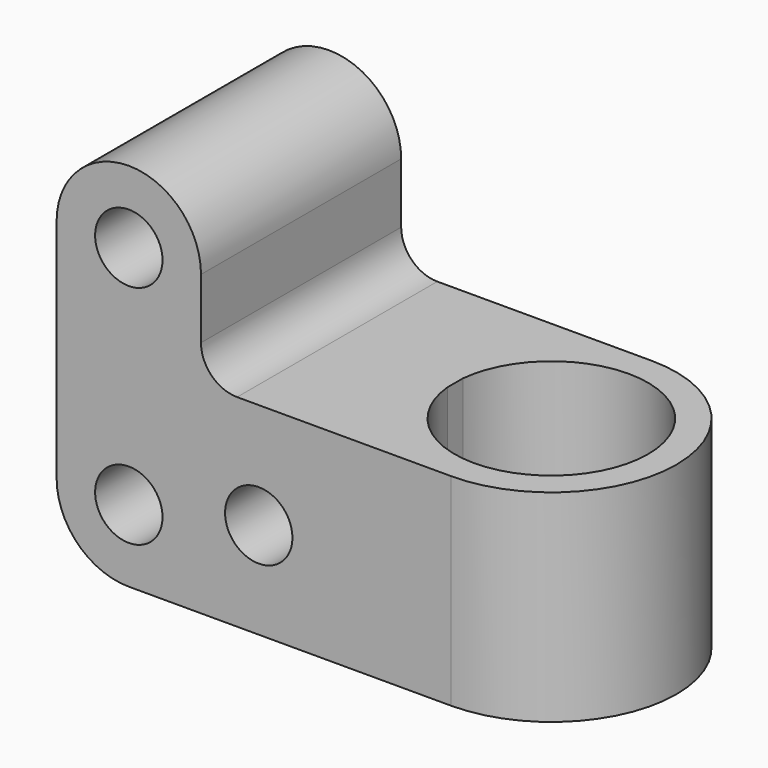
from build123d import *

# Parameters (mm, degrees)
F0_R     = 7
F1_DEPTH = 52
F3_DEPTH = 42


with BuildPart() as f1:
    # F0 (on Front) → F1 (new body)
    with BuildSketch(Plane.XZ):
        with BuildLine():
            Line((-47, 0), (0, 0))
            Line((0, 0), (0, 42))
            Line((0, 42), (-24.5, 42))
            ThreePointArc((-24.5, 42), (-29.803301, 44.196699), (-32, 49.5))
            Line((-32, 49.5), (-32, 62))
            ThreePointArc((-32, 62), (-47, 77), (-62, 62))
            Line((-62, 62), (-62, 15))
            ThreePointArc((-62, 15), (-57.606602, 4.393398), (-47, 0))
        make_face()
        with Locations((-47, 15)):
            Circle(F0_R, mode=Mode.SUBTRACT)
        with Locations((-20, 20)):
            Circle(F0_R, mode=Mode.SUBTRACT)
        with Locations((-47, 62)):
            Circle(F0_R, mode=Mode.SUBTRACT)
    extrude(amount=F1_DEPTH)

    # F2 (on Top) → F3 (join)
    with BuildSketch(Plane.XY):
        with BuildLine():
            Line((20, 0), (0, 0))
            Line((0, 0), (0, -23.997502))
            ThreePointArc((0, -23.997502), (21.002497, -5.925016), (40.1, -26))
            ThreePointArc((40.1, -26), (21.002497, -46.074984), (0, -28.002498))
            Line((0, -28.002498), (0, -52))
            Line((0, -52), (20, -52))
            ThreePointArc((20, -52), (46, -26), (20, 0))
        make_face()
        with BuildLine():
            Line((20, 0), (0, 0))
            Line((0, 0), (0, -23.997502))
            ThreePointArc((0, -23.997502), (21.002497, -5.925016), (40.1, -26))
            ThreePointArc((40.1, -26), (21.002497, -46.074984), (0, -28.002498))
            Line((0, -28.002498), (0, -52))
            Line((0, -52), (20, -52))
            ThreePointArc((20, -52), (46, -26), (20, 0))
        make_face()
    extrude(amount=F3_DEPTH)


solid = f1.part
